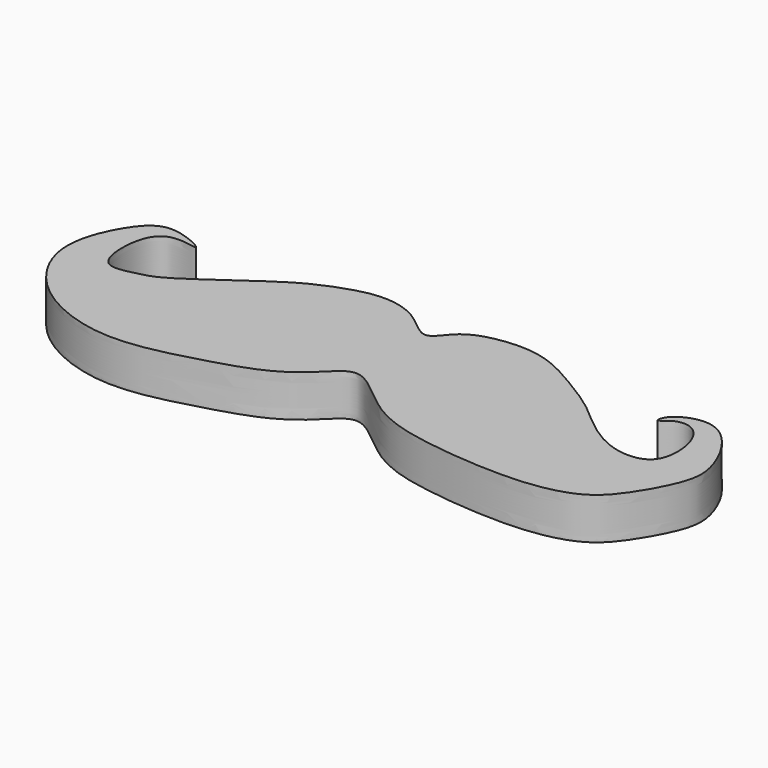
from build123d import *

# Parameters (mm, degrees)
F1_DEPTH = 5


with BuildPart() as f1:
    # F0 (on Top) → F1 (new body)
    with BuildSketch(Plane.XY):
        with BuildLine():
            add(Edge.make_bspline(
                [(-66.7098984122, 11.1724389717), (-65.8308132346, 11.373093474), (-64.348568556, 11.7088259091), (-61.1855770353, 13.8463568601), (-57.6692512556, 16.2706903937), (-53.7513085766, 19.138709934), (-49.6251598789, 21.0001424111), (-45.2432094196, 22.2082797479), (-40.7050559463, 21.0837399295), (-37.3449172628, 17.2277710804), (-35.5298547099, 20.6795201763), (-31.9222308009, 22.0771699246), (-26.3443784285, 22.3394081819), (-21.1030304117, 19.3575379142), (-16.5699195215, 16.528296618), (-13.7184031355, 13.6849011769), (-9.4892629395, 11.0967765984), (-5.6772061435, 11.180702846), (-4.1948086442, 13.2295505781), (-4.3926058165, 17.0712292834), (-6.2240277279, 19.6511396914), (-8.6127047695, 19.5485934284), (-9.9936271917, 17.9349238142), (-9.6822585163, 19.8097212913), (-6.9021400163, 21.2649377928), (-3.8997475421, 20.7163245716), (-1.3362689435, 17.678234556), (0.1933717235, 14.0885676009), (0.4032488925, 10.806348261), (-2.5707522003, 5.3483454868), (-5.3854115842, 2.2069082574), (-10.5495951578, 0.7603638779), (-17.0547199267, 0.7295317724), (-23.871515525, 1.411729084), (-31.4973447561, 3.0963450514), (-37.4874872341, 9.9834862617), (-40.6620495027, 5.9665675754), (-44.6587100083, 3.1506191763), (-50.599322365, 1.4178775597), (-56.5812797994, -0.2320674479), (-63.037459363, -0.5326010293), (-71.3076590649, 2.8657339423), (-76.0717455506, 10.6918760487), (-73.3193596598, 17.7735368957), (-69.9229293905, 21.4559936496), (-63.8278214475, 18.3485884199), (-67.2203359883, 19.2335862945), (-69.5237922801, 18.8302508539), (-70.8269650356, 15.8894327469), (-70.444795763, 10.3167504569), (-67.6804871058, 10.9508984473), (-66.7098984122, 11.1724389717)],
                knots=[0, 0, 0, 0, 0.0153859971, 0.0343073249, 0.0550815883, 0.0768805654, 0.097974508, 0.1187784243, 0.1402614192, 0.1598867369, 0.1761638884, 0.195547612, 0.2185675929, 0.2428921171, 0.2656712799, 0.2856310702, 0.3075438151, 0.3258449102, 0.340361354, 0.3594625869, 0.3762974015, 0.3908675037, 0.4024133244, 0.4122310629, 0.4294230096, 0.4461582123, 0.4655550976, 0.4849348814, 0.502586976, 0.526865359, 0.5471677733, 0.5694203873, 0.5947252017, 0.6206695502, 0.6487929202, 0.6758659052, 0.694793324, 0.7169483508, 0.7415268924, 0.7661664142, 0.7910862827, 0.8201961957, 0.8487990857, 0.8750942333, 0.8961959251, 0.9165215339, 0.9294221748, 0.9445553508, 0.9618799781, 0.9830124826, 1, 1, 1, 1], degree=3))
        make_face()
    extrude(amount=F1_DEPTH)


solid = f1.part
